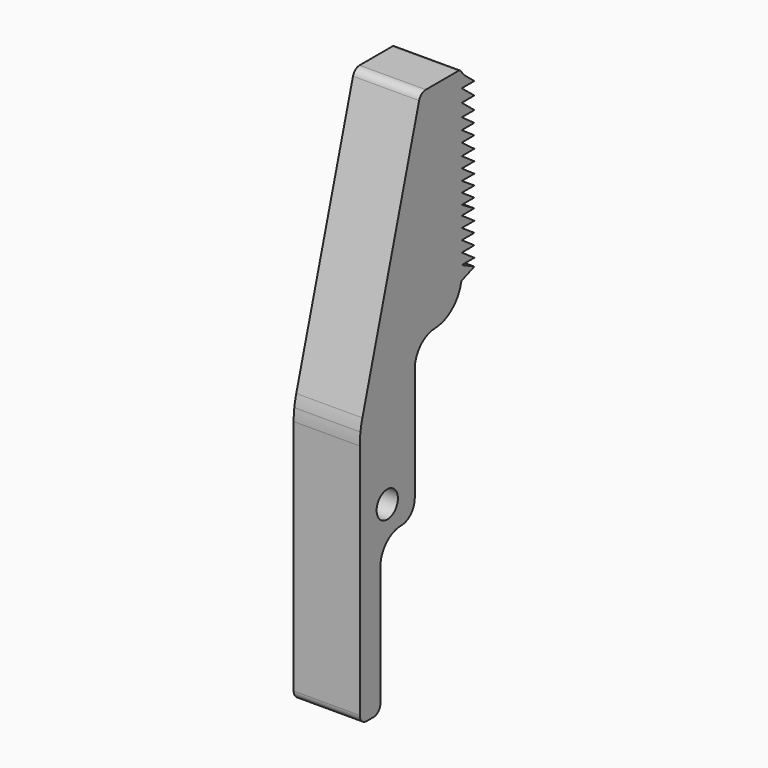
from build123d import *

# Parameters (mm, degrees)
F0_R     = 1.55
F1_DEPTH = 7.7


with BuildPart() as f1:
    # F0 (on Right) → F1 (new body)
    with BuildSketch(Plane.YZ):
        with BuildLine():
            ThreePointArc((0.378257, 31.335913), (0.214732, 30.672765), (0.096856, 30))
            Line((0.096856, 30), (8, 30))
            Line((8, 30), (8, 33.225827))
            ThreePointArc((8, 33.225827), (8.87868, 35.347148), (11, 36.225827))
            Line((11, 36.225827), (10.841426, 36.225827))
            ThreePointArc((10.841426, 36.225827), (13.364842, 37.122221), (14.757271, 39.409641))
            ThreePointArc((14.757271, 39.409641), (14.799371, 39.495296), (14.877529, 39.550072))
            Line((14.877529, 39.550072), (16.67311, 40.225827))
            Line((16.67311, 40.225827), (14.841426, 41.123461))
            Line((14.841426, 41.123461), (14.841426, 42.400047))
            Line((14.841426, 42.400047), (14.841426, 43.676633))
            Line((14.841426, 43.676633), (14.841426, 44.917755))
            Line((14.841426, 44.917755), (14.841426, 46.194341))
            Line((14.841426, 46.194341), (14.841426, 47.293622))
            Line((14.841426, 47.293622), (14.841426, 48.534747))
            Line((14.841426, 48.534747), (14.841426, 49.740411))
            Line((14.841426, 49.740411), (14.841426, 51.016998))
            Line((14.841426, 51.016998), (14.841426, 52.293584))
            Line((14.841426, 52.293584), (14.841426, 53.676549))
            Line((14.841426, 53.676549), (14.841426, 54.953136))
            Line((14.841426, 54.953136), (14.841426, 56.265183))
            Line((14.841426, 56.265183), (14.841426, 57.754532))
            Line((14.841426, 57.754532), (14.841426, 59.24388))
            Line((14.841426, 59.24388), (16.67311, 59.24388))
            Line((16.67311, 59.24388), (15.413323, 60.263127))
            ThreePointArc((15.413323, 60.263127), (15.05882, 60.601418), (14.764118, 60.992907))
            ThreePointArc((14.764118, 60.992907), (14.582735, 61.163743), (14.341426, 61.225827))
            Line((14.341426, 61.225827), (9.597594, 61.225827))
            ThreePointArc((9.597594, 61.225827), (8.99445, 61.02346), (8.63542, 60.498262))
            Line((8.63542, 60.498262), (0.378257, 31.335913))
        make_face()
        with BuildLine():
            Line((0, 28.611568), (0, 1))
            ThreePointArc((0, 1), (0.292893, 0.292893), (1, 0))
            Line((1, 0), (2, 0))
            ThreePointArc((2, 0), (2.707107, 0.292893), (3, 1))
            Line((3, 1), (3, 15))
            ThreePointArc((3, 15), (3.87868, 17.12132), (6, 18))
            ThreePointArc((6, 18), (7.414214, 18.585786), (8, 20))
            Line((8, 20), (8, 30))
            Line((8, 30), (0.096856, 30))
            ThreePointArc((0.096856, 30), (0.024243, 29.307471), (0, 28.611568))
        make_face()
        with Locations((4, 21)):
            Circle(F0_R, mode=Mode.SUBTRACT)
        with BuildLine():
            ThreePointArc((0.378257, 31.335913), (0.214732, 30.672765), (0.096856, 30))
            Line((0.096856, 30), (8, 30))
            Line((8, 30), (8, 33.225827))
            ThreePointArc((8, 33.225827), (8.87868, 35.347148), (11, 36.225827))
            Line((11, 36.225827), (10.841426, 36.225827))
            ThreePointArc((10.841426, 36.225827), (13.364842, 37.122221), (14.757271, 39.409641))
            ThreePointArc((14.757271, 39.409641), (14.799371, 39.495296), (14.877529, 39.550072))
            Line((14.877529, 39.550072), (16.67311, 40.225827))
            Line((16.67311, 40.225827), (14.841426, 41.123461))
            Line((14.841426, 41.123461), (14.841426, 42.400047))
            Line((14.841426, 42.400047), (14.841426, 43.676633))
            Line((14.841426, 43.676633), (14.841426, 44.917755))
            Line((14.841426, 44.917755), (14.841426, 46.194341))
            Line((14.841426, 46.194341), (14.841426, 47.293622))
            Line((14.841426, 47.293622), (14.841426, 48.534747))
            Line((14.841426, 48.534747), (14.841426, 49.740411))
            Line((14.841426, 49.740411), (14.841426, 51.016998))
            Line((14.841426, 51.016998), (14.841426, 52.293584))
            Line((14.841426, 52.293584), (14.841426, 53.676549))
            Line((14.841426, 53.676549), (14.841426, 54.953136))
            Line((14.841426, 54.953136), (14.841426, 56.265183))
            Line((14.841426, 56.265183), (14.841426, 57.754532))
            Line((14.841426, 57.754532), (14.841426, 59.24388))
            Line((14.841426, 59.24388), (16.67311, 59.24388))
            Line((16.67311, 59.24388), (15.413323, 60.263127))
            ThreePointArc((15.413323, 60.263127), (15.05882, 60.601418), (14.764118, 60.992907))
            ThreePointArc((14.764118, 60.992907), (14.582735, 61.163743), (14.341426, 61.225827))
            Line((14.341426, 61.225827), (9.597594, 61.225827))
            ThreePointArc((9.597594, 61.225827), (8.99445, 61.02346), (8.63542, 60.498262))
            Line((8.63542, 60.498262), (0.378257, 31.335913))
        make_face()
        Polygon((14.841426, 42.400047), (14.841426, 41.123461), (16.67311, 41.123461), align=None)
        Polygon((14.841426, 43.676633), (14.841426, 42.400047), (16.67311, 42.400047), align=None)
        Polygon((14.841426, 44.917755), (14.841426, 43.676633), (16.67311, 43.676633), align=None)
        Polygon((14.841426, 46.194341), (14.841426, 44.917755), (16.67311, 44.917755), align=None)
        Polygon((14.841426, 47.293622), (14.841426, 46.194341), (16.67311, 46.194341), align=None)
        Polygon((16.67311, 49.740411), (14.841426, 51.016998), (14.841426, 49.740411), align=None)
        Polygon((14.841426, 48.534747), (14.841426, 47.293622), (16.67311, 47.293622), align=None)
        Polygon((14.841426, 49.740411), (14.841426, 48.534747), (16.67311, 48.534747), align=None)
        Polygon((16.67311, 51.016998), (14.841426, 52.293584), (14.841426, 51.016998), align=None)
        Polygon((16.67311, 52.293584), (14.841426, 53.676549), (14.841426, 52.293584), align=None)
        Polygon((16.67311, 53.676549), (14.841426, 54.953136), (14.841426, 53.676549), align=None)
        Polygon((16.67311, 54.953136), (14.841426, 56.265183), (14.841426, 54.953136), align=None)
        Polygon((16.67311, 56.265183), (14.841426, 57.754532), (14.841426, 56.265183), align=None)
        Polygon((16.67311, 57.754532), (14.841426, 59.24388), (14.841426, 57.754532), align=None)
    extrude(amount=F1_DEPTH)


solid = f1.part
